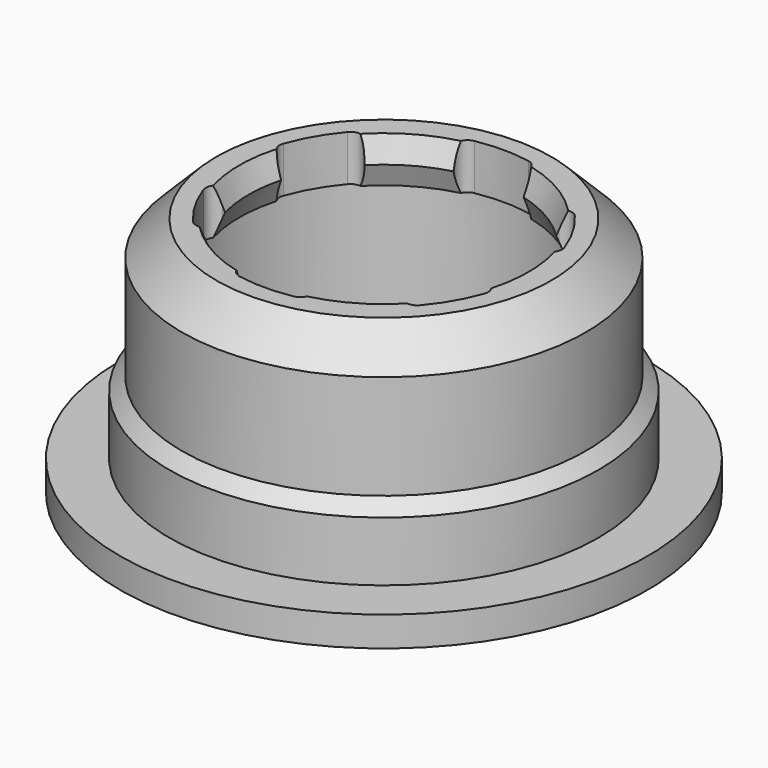
from build123d import *

# Parameters (mm, degrees)
POCKET_DEPTH       = 34.402163
POCKET_DEPTH_BACK  = 40.002163
POLARPATTERN_COUNT = 6


with BuildPart() as part:
    # Sketch → Revolution (revolve)
    with BuildSketch(Plane.XZ):
        Polygon((-3.6, 4.6), (-3.6, 3.5), (-3.6, 2.5), (-3.6, 1), (-3.325, 0.5), (-3.825, 0), (-4.4, 0), (-4.4, 0.35), (-5.75, 0.35), (-5.75, 1), (-4.675, 1), (-4.675, 2.3), (-4.4, 2.575), (-4.4, 4.85), (-3.65, 5.6), (-3.15, 5.6), (-2.95, 5.1), (-3.15, 4.6), align=None)
    revolve(axis=Axis((0, 0, 0), (0, 0, 1)))

    # Sketch001 → Pocket (cut, two sides)
    with BuildSketch(Plane.XY) as pocket_sk:
        with BuildLine():
            Line((0, 0), (-0.776457, 2.897777))
            ThreePointArc((-0.587735, 3.196415), (-0.747472, 3.08841), (-0.776457, 2.897777))
            ThreePointArc((0.587735, 3.196415), (0, 3.25), (-0.587735, 3.196415))
            ThreePointArc((0.776457, 2.897777), (0.747472, 3.08841), (0.587735, 3.196415))
            Line((0.776457, 2.897777), (0, 0))
        make_face()
    pocket = extrude(amount=-POCKET_DEPTH, mode=Mode.SUBTRACT) + extrude(pocket_sk.sketch, amount=POCKET_DEPTH_BACK, mode=Mode.SUBTRACT)

    # PolarPattern: Pocket ×6 about axis
    polarpattern_axis = Axis((0, 0, 0), (0, 0, 1))
    for i in range(1, POLARPATTERN_COUNT):
        add(pocket.rotate(polarpattern_axis, i * 360 / POLARPATTERN_COUNT), mode=Mode.SUBTRACT)


solid = part.part
